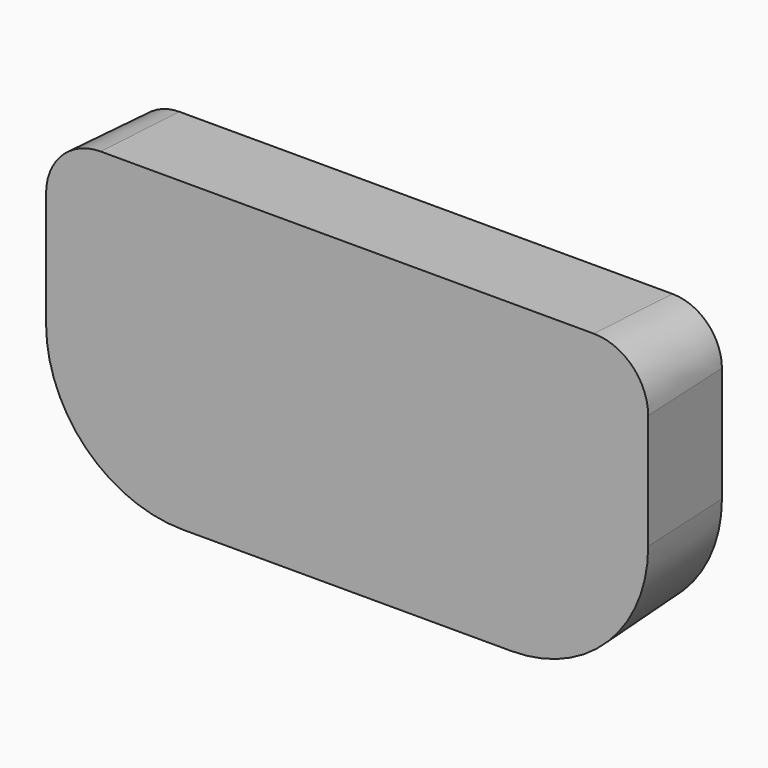
from build123d import *

# Parameters (mm, degrees)
F1_DEPTH = 152.4
F1_TAPER = -3


with BuildPart() as f1:
    # F0 (on Front) → F1 (new body)
    with BuildSketch(Plane.XZ):
        with BuildLine():
            Line((384.4163761884, 29.7510090653), (-377.5836238116, 29.7510090653))
            ThreePointArc((-377.5836238116, 29.7510090653), (-431.465160538, 7.4325457917), (-453.7836238116, -46.4489909347))
            Line((-453.7836238116, -46.4489909347), (-453.7836238116, -224.2489909347))
            ThreePointArc((-453.7836238116, -224.2489909347), (-394.2677217487, -367.9330888718), (-250.5836238116, -427.4489909347))
            Line((-250.5836238116, -427.4489909347), (257.4163761884, -427.4489909347))
            ThreePointArc((257.4163761884, -427.4489909347), (401.1004741255, -367.9330888718), (460.6163761884, -224.2489909347))
            Line((460.6163761884, -224.2489909347), (460.6163761884, -46.4489909347))
            ThreePointArc((460.6163761884, -46.4489909347), (438.2979129148, 7.4325457917), (384.4163761884, 29.7510090653))
        make_face()
    extrude(amount=F1_DEPTH, taper=F1_TAPER)


solid = f1.part
